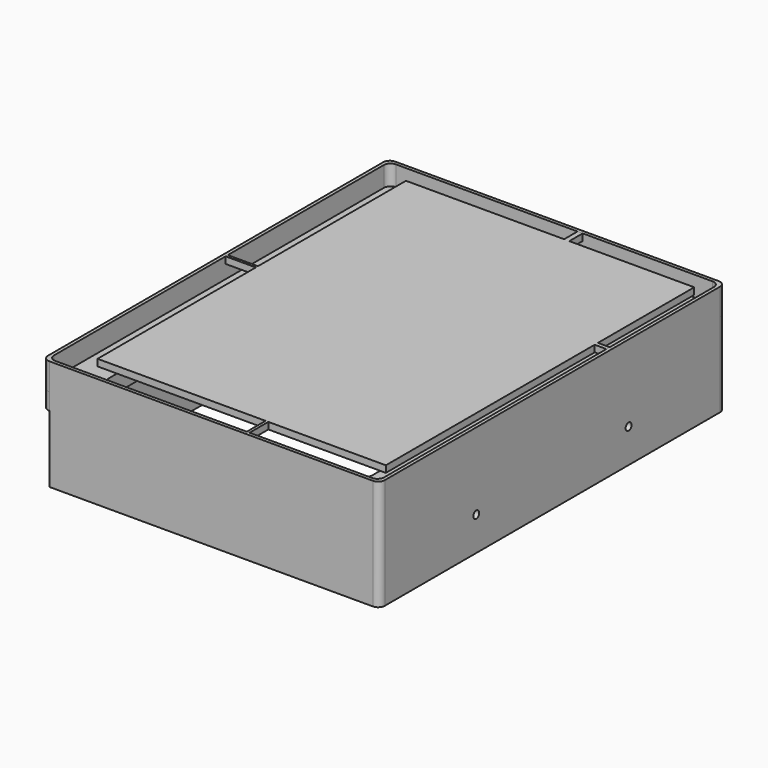
from build123d import *

# Parameters (mm, degrees)
F1_DEPTH  = 6
F3_DEPTH  = 2
F4_DEPTH  = 25
F6_DEPTH  = 22
F7_W      = 1.541879
F7_H      = 5
F7_W_2    = 9
F7_H_2    = 0.79839
F7_W_3    = 3.5
F7_H_3    = 1.202248
F7_W_4    = 0.828379
F7_H_4    = 7
F8_DEPTH  = 2
F10_DEPTH = 13.5
F11_W     = 29.551757
F11_H     = 60.03771
F12_DEPTH = 20
F13_W     = 24.233846
F13_H     = 52
F14_DEPTH = 15
F15_R     = 1.1
F17_DEPTH = 120
F16_R     = 1.1
F18_DEPTH = 25


with BuildPart() as f1:
    # F0 (on Top) → F1 (new body)
    with BuildSketch(Plane.XY):
        with BuildLine():
            Line((47.044474, 65.263562), (-49.455526, 65.263562))
            ThreePointArc((-49.455526, 65.263562), (-50.869739, 64.677775), (-51.455526, 63.263562))
            Line((-51.455526, 63.263562), (-51.455526, -61.736438))
            ThreePointArc((-51.455526, -61.736438), (-50.869739, -63.150652), (-49.455526, -63.736438))
            Line((-49.455526, -63.736438), (47.044474, -63.736438))
            ThreePointArc((47.044474, -63.736438), (48.458688, -63.150652), (49.044474, -61.736438))
            Line((49.044474, -61.736438), (49.044474, 63.263562))
            ThreePointArc((49.044474, 63.263562), (48.458688, 64.677775), (47.044474, 65.263562))
        make_face()
        with BuildLine():
            ThreePointArc((-50.455526, 62.263562), (-49.869739, 63.677775), (-48.455526, 64.263562))
            Line((-48.455526, 64.263562), (46.044474, 64.263562))
            ThreePointArc((46.044474, 64.263562), (47.458688, 63.677775), (48.044474, 62.263562))
            Line((48.044474, 62.263562), (48.044474, -60.736438))
            ThreePointArc((48.044474, -60.736438), (47.458688, -62.150652), (46.044474, -62.736438))
            Line((46.044474, -62.736438), (-48.455526, -62.736438))
            ThreePointArc((-48.455526, -62.736438), (-49.869739, -62.150652), (-50.455526, -60.736438))
            Line((-50.455526, -60.736438), (-50.455526, 62.263562))
        make_face(mode=Mode.SUBTRACT)
    extrude(amount=F1_DEPTH)

    # F2 (on Top) → F3 (join)
    with BuildSketch(Plane.XY):
        with BuildLine():
            Line((47.044474, 65.263562), (-49.455526, 65.263562))
            ThreePointArc((-49.455526, 65.263562), (-50.869739, 64.677775), (-51.455526, 63.263562))
            Line((-51.455526, 63.263562), (-51.455526, -61.736438))
            ThreePointArc((-51.455526, -61.736438), (-50.869739, -63.150652), (-49.455526, -63.736438))
            Line((-49.455526, -63.736438), (47.044474, -63.736438))
            ThreePointArc((47.044474, -63.736438), (48.458688, -63.150652), (49.044474, -61.736438))
            Line((49.044474, -61.736438), (49.044474, 63.263562))
            ThreePointArc((49.044474, 63.263562), (48.458688, 64.677775), (47.044474, 65.263562))
        make_face()
        with BuildLine():
            ThreePointArc((-40.455526, 54.263562), (-39.869739, 55.677775), (-38.455526, 56.263562))
            Line((-38.455526, 56.263562), (36.044474, 56.263562))
            ThreePointArc((36.044474, 56.263562), (37.458688, 55.677775), (38.044474, 54.263562))
            Line((38.044474, 54.263562), (38.044474, -52.736438))
            ThreePointArc((38.044474, -52.736438), (37.458688, -54.150652), (36.044474, -54.736438))
            Line((36.044474, -54.736438), (-38.455526, -54.736438))
            ThreePointArc((-38.455526, -54.736438), (-39.869739, -54.150652), (-40.455526, -52.736438))
            Line((-40.455526, -52.736438), (-40.455526, 54.263562))
        make_face(mode=Mode.SUBTRACT)
    extrude(amount=-F3_DEPTH)

    # F3_face (on face) → F4 (join)
    with BuildSketch(Plane(origin=(-1.205526, 0.763562, -2), x_dir=(1, 0, 0), z_dir=(0, 0, -1))):
        with BuildLine():
            Line((-48.25, -64.5), (48.25, -64.5))
            ThreePointArc((48.25, -64.5), (49.664214, -63.914214), (50.25, -62.5))
            Line((50.25, -62.5), (50.25, 62.5))
            ThreePointArc((50.25, 62.5), (49.664214, 63.914214), (48.25, 64.5))
            Line((48.25, 64.5), (-48.25, 64.5))
            ThreePointArc((-48.25, 64.5), (-49.664214, 63.914214), (-50.25, 62.5))
            Line((-50.25, 62.5), (-50.25, -62.5))
            ThreePointArc((-50.25, -62.5), (-49.664214, -63.914214), (-48.25, -64.5))
        make_face()
        with BuildLine():
            ThreePointArc((-39.25, 53.5), (-38.664214, 54.914214), (-37.25, 55.5))
            Line((-37.25, 55.5), (37.25, 55.5))
            ThreePointArc((37.25, 55.5), (38.664214, 54.914214), (39.25, 53.5))
            Line((39.25, 53.5), (39.25, -53.5))
            ThreePointArc((39.25, -53.5), (38.664214, -54.914214), (37.25, -55.5))
            Line((37.25, -55.5), (-37.25, -55.5))
            ThreePointArc((-37.25, -55.5), (-38.664214, -54.914214), (-39.25, -53.5))
            Line((-39.25, -53.5), (-39.25, 53.5))
        make_face(mode=Mode.SUBTRACT)
    extrude(amount=F4_DEPTH)

    # F5 (on face) → F6 (cut)
    with BuildSketch(Plane(origin=(0, 0, -27), x_dir=(1, 0, 0), z_dir=(0, 0, -1))):
        with BuildLine():
            Line((43.044474, 59.736438), (-45.455526, 59.736438))
            ThreePointArc((-45.455526, 59.736438), (-46.869739, 59.150652), (-47.455526, 57.736438))
            Line((-47.455526, 57.736438), (-47.455526, -59.263562))
            ThreePointArc((-47.455526, -59.263562), (-46.869739, -60.677775), (-45.455526, -61.263562))
            Line((-45.455526, -61.263562), (43.044474, -61.263562))
            ThreePointArc((43.044474, -61.263562), (44.458688, -60.677775), (45.044474, -59.263562))
            Line((45.044474, -59.263562), (45.044474, 57.736438))
            ThreePointArc((45.044474, 57.736438), (44.458688, 59.150652), (43.044474, 59.736438))
        make_face()
    extrude(amount=-F6_DEPTH, mode=Mode.SUBTRACT)

    # F9 (on face) → F10 (join)
    with BuildSketch(Plane(origin=(-51.455526, 0, 0), x_dir=(0, -1, 0), z_dir=(-1, 0, 0))):
        with BuildLine():
            Line((4.736438, -7), (-53.263562, -7))
            ThreePointArc((-53.263562, -7), (-54.677775, -7.585786), (-55.263562, -9))
            Line((-55.263562, -9), (-55.263562, -27))
            Line((-55.263562, -27), (6.736438, -27))
            Line((6.736438, -27), (6.736438, -9))
            ThreePointArc((6.736438, -9), (6.150652, -7.585786), (4.736438, -7))
        make_face()
    extrude(amount=F10_DEPTH)

    # F11 (on face) → F12 (cut)
    with BuildSketch(Plane(origin=(0, 0, -27), x_dir=(1, 0, 0), z_dir=(0, 0, -1))):
        with Locations((-64.231404, 36.755293)):
            Rectangle(F11_W, F11_H)
    extrude(amount=-F12_DEPTH, mode=Mode.SUBTRACT)

    # F13 (on face) → F14 (cut)
    with BuildSketch(Plane(origin=(0, 0, -27), x_dir=(1, 0, 0), z_dir=(0, 0, -1))):
        with Locations((-47.838603, -24.263562)):
            Rectangle(F13_W, F13_H)
    extrude(amount=-F14_DEPTH, mode=Mode.SUBTRACT)

    # F15 (on face) → F17 (cut)
    with BuildSketch(Plane(origin=(-64.955526, 0, 0), x_dir=(0, -1, 0), z_dir=(-1, 0, 0))):
        with Locations((-29.163562, -16.9)):
            Circle(F15_R)
    extrude(amount=-F17_DEPTH, mode=Mode.SUBTRACT)

    # F16 (on face) → F18 (cut)
    with BuildSketch(Plane.YZ.offset(49.044474)):
        with Locations((-27.636438, -16.9)):
            Circle(F16_R)
    extrude(amount=-F18_DEPTH, mode=Mode.SUBTRACT)


with BuildPart() as f8:
    # F7 (on face) → F8 (new body)
    with BuildSketch(Plane.XY.offset(6)):
        Polygon((5.732744, 59.263562), (-41.455526, 59.263562), (-41.455526, 4.068462), (-41.455526, 3.270072), (-41.455526, -55.736438), (8.660411, -55.736438), (9.48879, -55.736438), (44.544474, -55.736438), (44.544474, 22.143247), (44.544474, 23.345495), (44.544474, 59.263562), (7.274623, 59.263562), align=None)
        with Locations((6.503683, 61.763562)):
            Rectangle(F7_W, F7_H)
        with Locations((-45.955526, 3.669267)):
            Rectangle(F7_W_2, F7_H_2)
        with Locations((46.294474, 22.744371)):
            Rectangle(F7_W_3, F7_H_3)
        with Locations((9.0746, -59.236438)):
            Rectangle(F7_W_4, F7_H_4)
    extrude(amount=-F8_DEPTH)


with BuildPart() as f19_1:
    # F19: copy of F1
    add(f1.part)


solid = Compound([f1.part, f8.part, f19_1.part])
